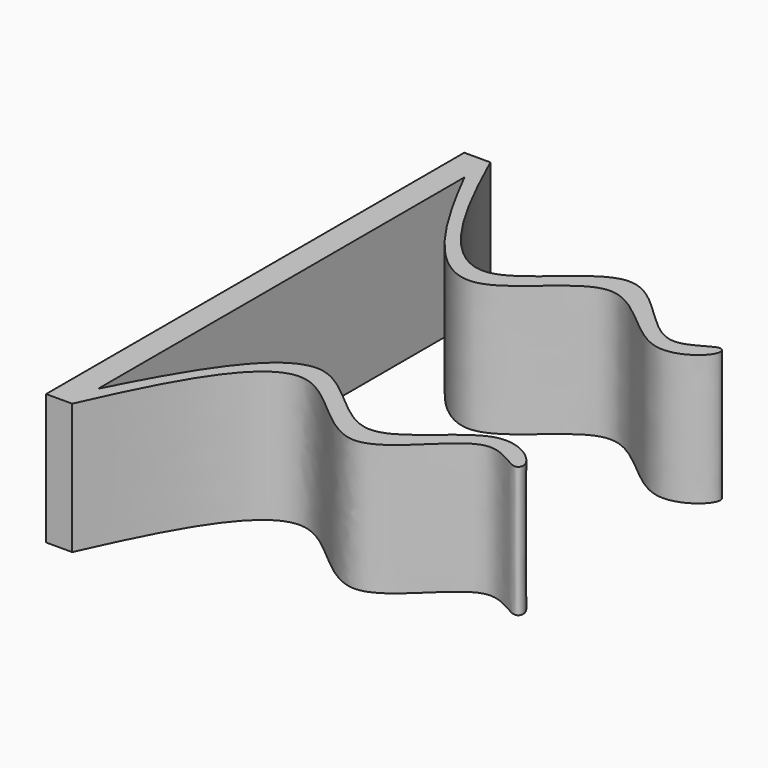
from build123d import *

# Parameters (mm, degrees)
F1_DEPTH = 25.4


with BuildPart() as f1:
    # F0 (on Top) → F1 (new body)
    with BuildSketch(Plane.XY):
        with BuildLine():
            add(Edge.make_bspline(
                [(5.08, -50.8), (12.2264718384, -34.8349938873), (25.3732412121, -10.2132971164), (46.2694535303, -43.5002302212), (61.3175357925, -16.9479559879), (70.2557975666, -26.2822789292), (72.272748726, -22.7932449942), (61.0013612314, -14.0311089028), (45.5751638712, -38.445721593), (26.1661312025, -7.2918949569), (12.422631589, -30.0205133664), (5.08, -44.5216186345)],
                knots=[0, 0, 0, 0, 0.1618169024, 0.2871114941, 0.4069230606, 0.4830757612, 0.5174277161, 0.5999962781, 0.719707769, 0.8420138588, 1, 1, 1, 1], degree=3))
            Line((5.08, -44.5216186345), (5.08, -50.8))
        make_face()
        Polygon((5.08, 0), (0, 0), (0, -50.8), (5.08, -50.8), (5.08, -44.5216186345), align=None)
        Polygon((0, 50.8), (0, 0), (5.08, 0), (5.08, 44.5216186345), (5.08, 50.8), align=None)
        with BuildLine():
            add(Edge.make_bspline(
                [(5.08, 50.8), (12.2264718384, 34.8349938873), (25.3732412121, 10.2132971164), (46.2694535303, 43.5002302212), (61.3175357925, 16.9479559879), (70.2557975666, 26.2822789292), (72.272748726, 22.7932449942), (61.0013612314, 14.0311089028), (45.5751638712, 38.445721593), (26.1661312025, 7.2918949569), (12.422631589, 30.0205133664), (5.08, 44.5216186345)],
                knots=[0, 0, 0, 0, 0.1618169024, 0.2871114941, 0.4069230606, 0.4830757612, 0.5174277161, 0.5999962781, 0.719707769, 0.8420138588, 1, 1, 1, 1], degree=3))
            Line((5.08, 50.8), (5.08, 44.5216186345))
        make_face()
    extrude(amount=F1_DEPTH)


solid = f1.part
